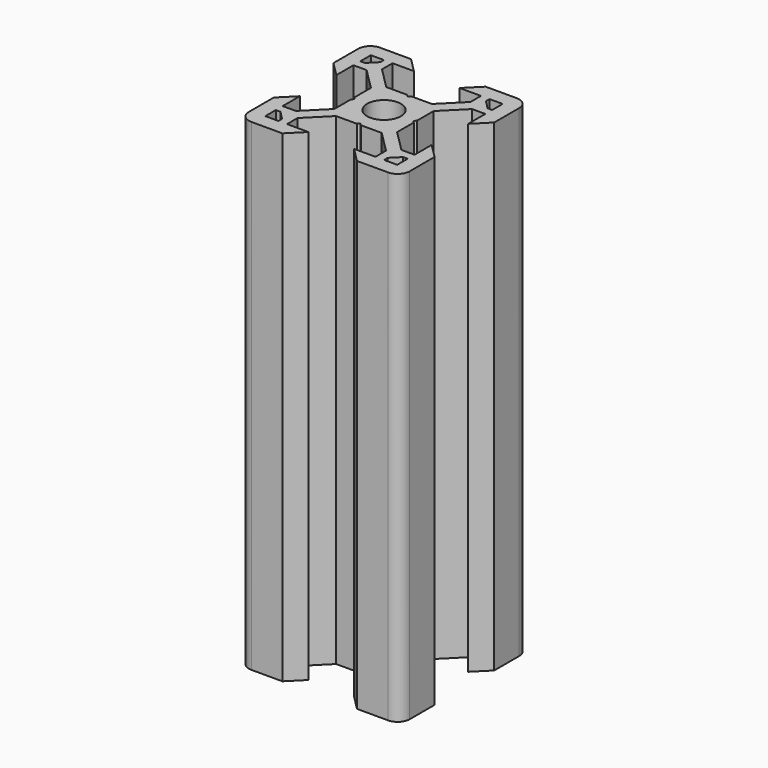
from build123d import *

# Parameters (mm, degrees)
F0_R     = 2.1
F1_DEPTH = 60


with BuildPart() as f1:
    # F0 (on Top) → F1 (new body)
    with BuildSketch(Plane.XY):
        with BuildLine():
            Line((10, 4.410115), (10, 8.270115))
            ThreePointArc((10, 8.270115), (9.56066, 9.330775), (8.5, 9.770115))
            Line((8.5, 9.770115), (4.64, 9.770115))
            Line((4.64, 9.770115), (2.84, 7.970115))
            Line((2.84, 7.970115), (5.49934, 7.970115))
            Line((5.49934, 7.970115), (5.49934, 6.330115))
            Line((5.49934, 6.330115), (2.84, 3.670775))
            Line((2.84, 3.670775), (0.25, 3.670775))
            Line((0.25, 3.670775), (0, 3.420775))
            Line((0, 3.420775), (-0.25, 3.670775))
            Line((-0.25, 3.670775), (-2.84, 3.670775))
            Line((-2.84, 3.670775), (-5.49934, 6.330115))
            Line((-5.49934, 6.330115), (-5.49934, 7.970115))
            Line((-5.49934, 7.970115), (-2.84, 7.970115))
            Line((-2.84, 7.970115), (-4.64, 9.770115))
            Line((-4.64, 9.770115), (-8.5, 9.770115))
            ThreePointArc((-8.5, 9.770115), (-9.56066, 9.330775), (-10, 8.270115))
            Line((-10, 8.270115), (-10, 4.410115))
            Line((-10, 4.410115), (-8.2, 2.610115))
            Line((-8.2, 2.610115), (-8.2, 5.269455))
            Line((-8.2, 5.269455), (-6.56, 5.269455))
            Line((-6.56, 5.269455), (-3.90066, 2.610115))
            Line((-3.90066, 2.610115), (-3.90066, 0.020115))
            Line((-3.90066, 0.020115), (-3.65066, -0.229885))
            Line((-3.65066, -0.229885), (-3.90066, -0.479885))
            Line((-3.90066, -0.479885), (-3.90066, -3.069885))
            Line((-3.90066, -3.069885), (-6.56, -5.729225))
            Line((-6.56, -5.729225), (-8.2, -5.729225))
            Line((-8.2, -5.729225), (-8.2, -3.069885))
            Line((-8.2, -3.069885), (-10, -4.869885))
            Line((-10, -4.869885), (-10, -8.729885))
            ThreePointArc((-10, -8.729885), (-9.56066, -9.790545), (-8.5, -10.229885))
            Line((-8.5, -10.229885), (-4.64, -10.229885))
            Line((-4.64, -10.229885), (-2.84, -8.429885))
            Line((-2.84, -8.429885), (-5.49934, -8.429885))
            Line((-5.49934, -8.429885), (-5.49934, -6.789885))
            Line((-5.49934, -6.789885), (-2.84, -4.130545))
            Line((-2.84, -4.130545), (-0.25, -4.130545))
            Line((-0.25, -4.130545), (0, -3.880545))
            Line((0, -3.880545), (0.25, -4.130545))
            Line((0.25, -4.130545), (2.84, -4.130545))
            Line((2.84, -4.130545), (5.49934, -6.789885))
            Line((5.49934, -6.789885), (5.49934, -8.429885))
            Line((5.49934, -8.429885), (2.84, -8.429885))
            Line((2.84, -8.429885), (4.64, -10.229885))
            Line((4.64, -10.229885), (8.5, -10.229885))
            ThreePointArc((8.5, -10.229885), (9.56066, -9.790545), (10, -8.729885))
            Line((10, -8.729885), (10, -4.869885))
            Line((10, -4.869885), (8.2, -3.069885))
            Line((8.2, -3.069885), (8.2, -5.729225))
            Line((8.2, -5.729225), (6.56, -5.729225))
            Line((6.56, -5.729225), (3.90066, -3.069885))
            Line((3.90066, -3.069885), (3.90066, -0.479885))
            Line((3.90066, -0.479885), (3.65066, -0.229885))
            Line((3.65066, -0.229885), (3.90066, 0.020115))
            Line((3.90066, 0.020115), (3.90066, 2.610115))
            Line((3.90066, 2.610115), (6.56, 5.269455))
            Line((6.56, 5.269455), (8.2, 5.269455))
            Line((8.2, 5.269455), (8.2, 2.610115))
            Line((8.2, 2.610115), (10, 4.410115))
        make_face()
        Polygon((-6.56934, -7.859885), (-6.56934, -8.429885), (-8.2, -8.429885), (-8.2, -6.799225), (-7.63, -6.799225), align=None, mode=Mode.SUBTRACT)
        Polygon((8.2, -8.429885), (6.56934, -8.429885), (6.56934, -7.859885), (7.63, -6.799225), (8.2, -6.799225), align=None, mode=Mode.SUBTRACT)
        Polygon((-7.63, 6.339455), (-8.2, 6.339455), (-8.2, 7.970115), (-6.56934, 7.970115), (-6.56934, 7.400115), align=None, mode=Mode.SUBTRACT)
        with Locations((0, -0.229885)):
            Circle(F0_R, mode=Mode.SUBTRACT)
        Polygon((6.56934, 7.400115), (6.56934, 7.970115), (8.2, 7.970115), (8.2, 6.339455), (7.63, 6.339455), align=None, mode=Mode.SUBTRACT)
    extrude(amount=F1_DEPTH)


solid = f1.part
